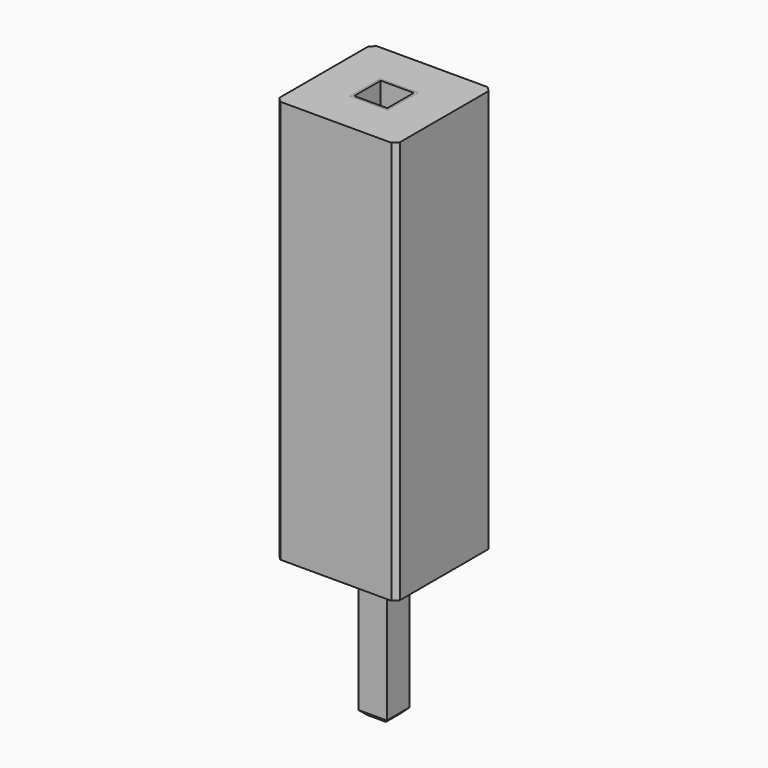
from build123d import *

# Parameters (mm, degrees)
F0_W          = 2.54
F0_H          = 2.54
F0_W_2        = 0.8
F0_H_2        = 0.8
F1_DEPTH      = 8.5
F2_SIZE       = 0.1
F3_W          = 0.8
F3_H          = 0.8
F3_W_2        = 0.7
F3_H_2        = 0.7
F4_DEPTH      = 8.5
F3_W_3        = 0.6
F3_H_3        = 0.6
F5_DEPTH      = 0.1
F6_DEPTH      = 3
F6_DEPTH_BACK = 0.1
F7_SIZE       = 0.1


with BuildPart() as f1:
    # F0 (on Top) → F1 (new body)
    with BuildSketch(Plane.XY):
        Rectangle(F0_W, F0_H)
        Rectangle(F0_W_2, F0_H_2, mode=Mode.SUBTRACT)
    extrude(amount=F1_DEPTH)

    # F2
    f2_edges = [f1.edges().sort_by_distance(p)[0] for p in [
        (1.27, -1.27, 4.25),
        (-1.27, -1.27, 4.25),
        (-1.27, 1.27, 4.25),
        (1.27, 1.27, 4.25),
    ]]
    chamfer(f2_edges, length=F2_SIZE)


with BuildPart() as f4:
    # F3 (on Top) → F4 (new body, through all)
    with BuildSketch(Plane.XY):
        Rectangle(F3_W, F3_H)
        Rectangle(F3_W_2, F3_H_2, mode=Mode.SUBTRACT)
    extrude(amount=F4_DEPTH)

    # F3 (on Top) → F5 (join)
    with BuildSketch(Plane.XY):
        Rectangle(F3_W_2, F3_H_2)
        Rectangle(F3_W_3, F3_H_3, mode=Mode.SUBTRACT)
    extrude(amount=F5_DEPTH)

    # F3 (on Top) → F6 (join, two sides)
    with BuildSketch(Plane.XY) as f6_sk:
        Rectangle(F3_W_3, F3_H_3)
    extrude(amount=-F6_DEPTH)
    extrude(f6_sk.sketch, amount=F6_DEPTH_BACK)

    # F7
    f7_edges = [f4.edges().sort_by_distance(p)[0] for p in [
        (0.3, 0, -3),
        (0, 0.3, -3),
        (-0.3, 0, -3),
        (0, -0.3, -3),
    ]]
    chamfer(f7_edges, length=F7_SIZE)


solid = Compound([f1.part, f4.part])
